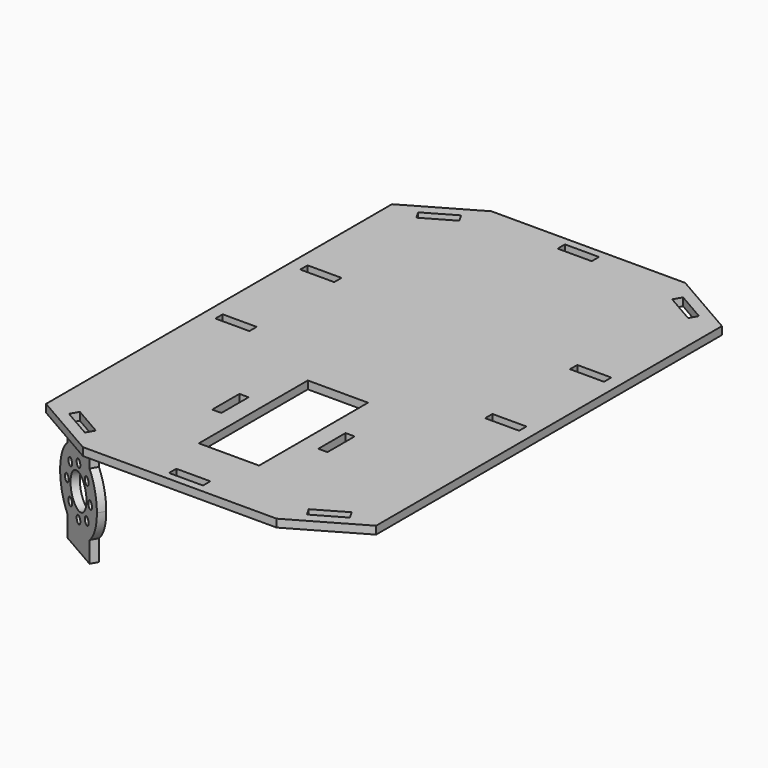
from build123d import *

# Parameters (mm, degrees)
F0_W     = 13
F0_H     = 3.5
F0_W_2   = 3.5
F0_H_2   = 13
F0_W_3   = 23
F0_H_3   = 52
F1_DEPTH = 3
F2_R     = 1.5
F2_R_2   = 6.5
F3_DEPTH = 3


with BuildPart() as f1:
    # F0 (on Top) → F1 (new body)
    with BuildSketch(Plane.XY):
        Polygon((37, 97.5), (-37, 97.5), (-63, 82.53337), (-63, -82.53337), (-37, -97.5), (37, -97.5), (63, -82.53337), (63, 82.53337), align=None)
        Polygon((-40.625009, -86.759455), (-42.371116, -89.792788), (-53.637783, -83.307249), (-51.891676, -80.273915), align=None, mode=Mode.SUBTRACT)
        with Locations((-51.5, -6.25)):
            Rectangle(F0_W, F0_H, mode=Mode.SUBTRACT)
        with Locations((-20.25, -48)):
            Rectangle(F0_W_2, F0_H_2, mode=Mode.SUBTRACT)
        with Locations((0, -92.75)):
            Rectangle(F0_W, F0_H, mode=Mode.SUBTRACT)
        Polygon((53.637783, -83.307249), (42.371116, -89.792788), (40.625009, -86.759455), (51.891676, -80.273915), align=None, mode=Mode.SUBTRACT)
        with Locations((0, -48)):
            Rectangle(F0_W_3, F0_H_3, mode=Mode.SUBTRACT)
        with Locations((20.25, -48)):
            Rectangle(F0_W_2, F0_H_2, mode=Mode.SUBTRACT)
        with Locations((51.5, -6.25)):
            Rectangle(F0_W, F0_H, mode=Mode.SUBTRACT)
        with Locations((-51.5, 34.25)):
            Rectangle(F0_W, F0_H, mode=Mode.SUBTRACT)
        Polygon((-53.637783, 83.307249), (-42.371116, 89.792788), (-40.625009, 86.759455), (-51.891676, 80.273915), align=None, mode=Mode.SUBTRACT)
        with Locations((51.5, 34.25)):
            Rectangle(F0_W, F0_H, mode=Mode.SUBTRACT)
        with Locations((0, 92.75)):
            Rectangle(F0_W, F0_H, mode=Mode.SUBTRACT)
        Polygon((40.625009, 86.759455), (42.371116, 89.792788), (53.637783, 83.307249), (51.891676, 80.273915), align=None, mode=Mode.SUBTRACT)
    extrude(amount=F1_DEPTH)


with BuildPart() as f3:
    # F2 (on face) → F3 (new body)
    with BuildSketch(Plane(origin=(-47.623238, -82.730997, 0), x_dir=(0.866667, -0.498888, 0), z_dir=(-0.498888, -0.866667, 0))):
        with BuildLine():
            ThreePointArc((-7.425121, -8), (1.574879, -5), (10.574879, -8))
            Line((10.574879, -8), (10.574879, 0))
            Line((10.574879, 0), (8.074879, 0))
            Line((8.074879, 0), (-4.925121, 0))
            Line((-4.925121, 0), (-7.425121, 0))
            Line((-7.425121, 0), (-7.425121, -8))
        make_face()
        with BuildLine():
            Line((-7.425121, -8), (10.574879, -8))
            ThreePointArc((10.574879, -8), (1.574879, -5), (-7.425121, -8))
        make_face()
        with BuildLine():
            ThreePointArc((10.574879, -32), (14.991287, -26.708204), (16.574879, -20))
            ThreePointArc((16.574879, -20), (14.991287, -13.291796), (10.574879, -8))
            Line((10.574879, -8), (-7.425121, -8))
            ThreePointArc((-7.425121, -8), (-13.425121, -20), (-7.425121, -32))
            Line((-7.425121, -32), (10.574879, -32))
        make_face()
        with Locations((1.574879, -29.5)):
            Circle(F2_R, mode=Mode.SUBTRACT)
        with Locations((-7.925121, -20)):
            Circle(F2_R, mode=Mode.SUBTRACT)
        with Locations((-5.142635, -26.717514)):
            Circle(F2_R, mode=Mode.SUBTRACT)
        with Locations((8.292394, -26.717514)):
            Circle(F2_R, mode=Mode.SUBTRACT)
        with Locations((1.574879, -20)):
            Circle(F2_R_2, mode=Mode.SUBTRACT)
        with Locations((11.074879, -20)):
            Circle(F2_R, mode=Mode.SUBTRACT)
        with Locations((-5.142635, -13.282486)):
            Circle(F2_R, mode=Mode.SUBTRACT)
        with Locations((8.292394, -13.282486)):
            Circle(F2_R, mode=Mode.SUBTRACT)
        with Locations((1.574879, -10.5)):
            Circle(F2_R, mode=Mode.SUBTRACT)
        with BuildLine():
            ThreePointArc((-7.425121, -32), (1.574879, -35), (10.574879, -32))
            Line((10.574879, -32), (-7.425121, -32))
        make_face()
        with BuildLine():
            Line((10.574879, -40), (10.574879, -32))
            ThreePointArc((10.574879, -32), (1.574879, -35), (-7.425121, -32))
            Line((-7.425121, -32), (-7.425121, -40))
            Line((-7.425121, -40), (10.574879, -40))
        make_face()
    extrude(amount=F3_DEPTH)


solid = Compound([f1.part, f3.part])
